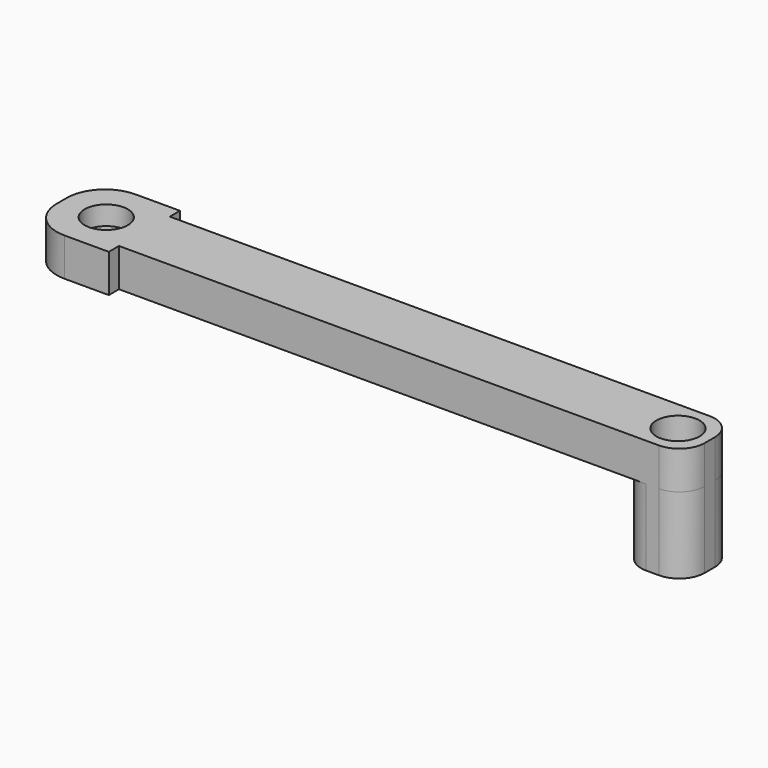
from build123d import *

# Parameters (mm, degrees)
F0_R     = 1.7
F1_DEPTH = 3
F2_R     = 2
F3_R     = 1.7
F4_DEPTH = 6
F5_R     = 2
F6_R     = 1.7
F7_DEPTH = 3
F8_R     = 2.9
F9_DEPTH = 1.5


with BuildPart() as f1:
    # F0 (on Top) → F1 (new body)
    with BuildSketch(Plane.XY):
        Polygon((-2.5, 2.5), (-2.5, 0), (-2.5, -2.5), (47.5, -2.5), (47.5, 0), (47.5, 2.5), align=None)
        Circle(F0_R, mode=Mode.SUBTRACT)
        with Locations((45, 0)):
            Circle(F0_R, mode=Mode.SUBTRACT)
    extrude(amount=F1_DEPTH)

    # F2
    f2_edges = [f1.edges().sort_by_distance(p)[0] for p in [
        (-2.5, 2.5, 1.5),
        (-2.5, -2.5, 1.5),
        (47.5, 2.5, 1.5),
        (47.5, -2.5, 1.5),
    ]]
    fillet(f2_edges, radius=F2_R)

    # F3 (on face) → F4 (join)
    with BuildSketch(Plane(origin=(0, 0, 0), x_dir=(1, 0, 0), z_dir=(0, 0, -1))):
        with BuildLine():
            Line((42.5, -2.5), (45.5, -2.5))
            ThreePointArc((45.5, -2.5), (46.9142135624, -1.9142135624), (47.5, -0.5))
            Line((47.5, -0.5), (47.5, 0.5))
            ThreePointArc((47.5, 0.5), (46.9142135624, 1.9142135624), (45.5, 2.5))
            Line((45.5, 2.5), (42.5, 2.5))
            Line((42.5, 2.5), (42.5, -2.5))
        make_face()
        with Locations((45, 0)):
            Circle(F3_R, mode=Mode.SUBTRACT)
    extrude(amount=F4_DEPTH)

    # F5
    f5_edges = [f1.edges().sort_by_distance(p)[0] for p in [
        (42.5, 2.5, -3),
        (42.5, -2.5, -3),
    ]]
    fillet(f5_edges, radius=F5_R)

    # F6 (on face) → F7 (join, through all)
    with BuildSketch(Plane.XY.offset(3)):
        with BuildLine():
            ThreePointArc((-0.5, 3.5), (-2.6213203436, 2.6213203436), (-3.5, 0.5))
            Line((-3.5, 0.5), (-3.5, -0.5))
            ThreePointArc((-3.5, -0.5), (-2.6213203436, -2.6213203436), (-0.5, -3.5))
            Line((-0.5, -3.5), (3, -3.5))
            Line((3, -3.5), (3, -2.5))
            Line((3, -2.5), (3, 2.5))
            Line((3, 2.5), (3, 3.5))
            Line((3, 3.5), (-0.5, 3.5))
        make_face()
        Circle(F6_R, mode=Mode.SUBTRACT)
    extrude(amount=-F7_DEPTH)

    # F8 (on face) → F9 (cut)
    with BuildSketch(Plane(origin=(0, 0, 0), x_dir=(1, 0, 0), z_dir=(0, 0, -1))):
        Circle(F8_R)
    extrude(amount=-F9_DEPTH, mode=Mode.SUBTRACT)


solid = f1.part
